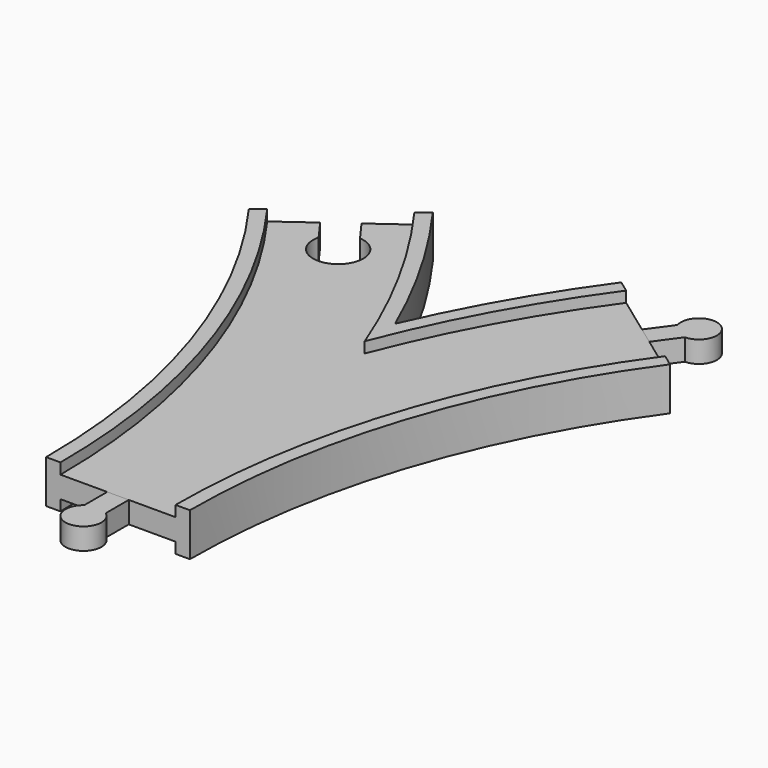
from build123d import *

# Parameters (mm, degrees)
SKETCH013_W       = 32
SKETCH013_H       = 3
POCKET_DEPTH      = 6.001
POCKET_DEPTH_BACK = -6.001
PAD_DEPTH         = 3
PAD001_DEPTH      = 3


with BuildPart() as main:
    # AdditivePipe: sweep along a path in Sketch
    with BuildLine(Plane.XY) as additivepipe_path:
        ThreePointArc((0, 0), (-10.865453, 68.601773), (-42.398227, 130.488326))
    # Sketch002 → AdditivePipe (sweep)
    with BuildSketch(Plane.XZ):
        Polygon((-20, 6), (-20, -6), (-16, -6), (-16, -3), (-9, -3), (9, -3), (16, -3), (16, -6), (20, -6), (20, 6), (16, 6), (16, 3), (9, 3), (-9, 3), (-16, 3), (-16, 6), align=None)
    sweep(path=additivepipe_path.line)

    # AdditivePipe001: sweep along a path in Sketch001
    with BuildLine(Plane.XY) as additivepipe001_path:
        ThreePointArc((42.398227, 130.488326), (10.865453, 68.601773), (0, 0))
    # Sketch002 → AdditivePipe001 (sweep)
    with BuildSketch(Plane.XZ):
        Polygon((-20, 6), (-20, -6), (-16, -6), (-16, -3), (-9, -3), (9, -3), (16, -3), (16, -6), (20, -6), (20, 6), (16, 6), (16, 3), (9, 3), (-9, 3), (-16, 3), (-16, 6), align=None)
    sweep(path=additivepipe001_path.line)

    # SubtractivePipe: sweep along a path in Sketch
    with BuildLine(Plane.XY) as subtractivepipe_path:
        ThreePointArc((0, 0), (-10.865453, 68.601773), (-42.398227, 130.488326))
    # Sketch013 (on Face1 of AdditivePipe001) → SubtractivePipe (sweep, cut)
    with BuildSketch(Plane.XZ):
        with Locations((0, 4.5)):
            Rectangle(SKETCH013_W, SKETCH013_H)
    subtractivepipe = sweep(path=subtractivepipe_path.line, mode=Mode.SUBTRACT)

    # SubtractivePipe001: sweep along a path in Sketch001
    with BuildLine(Plane.XY) as subtractivepipe001_path:
        ThreePointArc((42.398227, 130.488326), (10.865453, 68.601773), (0, 0))
    # Sketch013 (on Face1 of AdditivePipe001) → SubtractivePipe001 (sweep, cut)
    with BuildSketch(Plane.XZ):
        with Locations((0, 4.5)):
            Rectangle(SKETCH013_W, SKETCH013_H)
    subtractivepipe001 = sweep(path=subtractivepipe001_path.line, mode=Mode.SUBTRACT)

    # Mirrored: SubtractivePipe across XY
    add(subtractivepipe.mirror(Plane.XY), mode=Mode.SUBTRACT)

    # Mirrored001: SubtractivePipe001 across XY
    add(subtractivepipe001.mirror(Plane.XY), mode=Mode.SUBTRACT)

    # Sketch008 → Pocket (cut, two sides)
    with BuildSketch(Plane.XY) as pocket_sk:
        with BuildLine():
            Line((-46.038804, 127.843292), (-38.757651, 133.13336))
            Line((-38.757651, 133.13336), (-34.643154, 127.470241))
            ThreePointArc((-41.924307, 122.180173), (-31.017586, 114.824218), (-34.643154, 127.470241))
            Line((-46.038804, 127.843292), (-41.924307, 122.180173))
        make_face()
    extrude(amount=-POCKET_DEPTH, mode=Mode.SUBTRACT)
    extrude(pocket_sk.sketch, amount=-POCKET_DEPTH_BACK, mode=Mode.SUBTRACT)


with BuildPart() as male1:
    # Sketch010 → Pad (new body, symmetric)
    with BuildSketch(Plane.XY):
        with BuildLine():
            Line((-3, 0), (3, 0))
            Line((3, 0), (3, -8))
            ThreePointArc((-3, -8), (0, -17), (3, -8))
            Line((-3, 0), (-3, -8))
        make_face()
    extrude(amount=PAD_DEPTH, both=True)


with BuildPart() as male3:
    # Sketch011 → Pad001 (new body, symmetric)
    with BuildSketch(Plane.XY):
        with BuildLine():
            Line((39.971176, 132.251682), (44.825278, 128.72497))
            Line((44.825278, 128.72497), (49.52756, 135.197106))
            ThreePointArc((49.52756, 135.197106), (52.390577, 144.241615), (44.673458, 138.723818))
            Line((39.971176, 132.251682), (44.673458, 138.723818))
        make_face()
    extrude(amount=PAD001_DEPTH, both=True)


solid = Compound([main.part, male1.part, male3.part])
